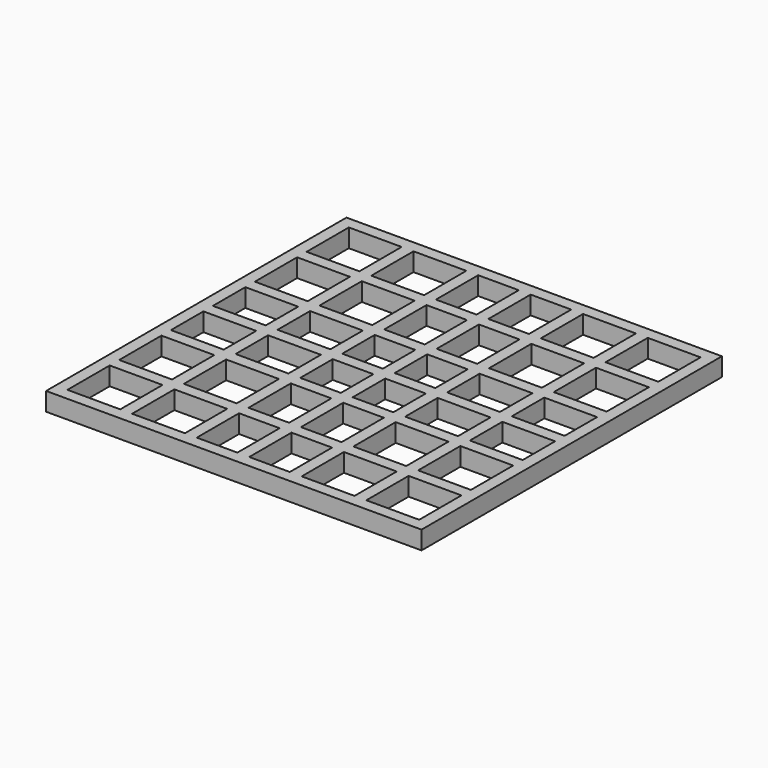
from build123d import *

# Parameters (mm, degrees)
F0_W     = 4237.8
F0_H     = 4237.8
F0_W_2   = 596.1
F0_H_2   = 133.9
F0_W_3   = 133.9
F0_H_3   = 596.1
F0_H_4   = 458.05
F0_W_4   = 458.05
F1_DEPTH = 206.8


with BuildPart() as f1:
    # F0 (on Top) → F1 (new body)
    with BuildSketch(Plane.XY):
        Rectangle(F0_W, F0_H)
        Polygon((1985, 66.95), (1985, 0), (1985, -66.95), (1985, -525), (1985, -658.9), (1985, -1255), (1985, -1388.9), (1985, -1985), (1388.9, -1985), (1255, -1985), (658.9, -1985), (525, -1985), (66.95, -1985), (4.19e-08, -1985), (-66.95, -1985), (-525, -1985), (-658.9, -1985), (-1255, -1985), (-1388.9, -1985), (-1985, -1985), (-1985, -1388.9), (-1985, -1255), (-1985, -658.9), (-1985, -525), (-1985, -66.95), (-1985, 1.1618e-06), (-1985, 66.95), (-1985, 525), (-1985, 658.9), (-1985, 1255), (-1985, 1388.9), (-1985, 1985), (-1388.9, 1985), (-1255, 1985), (-658.9, 1985), (-525, 1985), (-66.95, 1985), (0, 1985), (66.95, 1985), (525, 1985), (658.9, 1985), (1255, 1985), (1388.9, 1985), (1985, 1985), (1985, 1388.9), (1985, 1255), (1985, 658.9), (1985, 525), align=None, mode=Mode.SUBTRACT)
        with Locations((-956.95, 1321.95)):
            Rectangle(F0_W_2, F0_H_2)
        with Locations((-1321.95, 956.95)):
            Rectangle(F0_W_3, F0_H_3)
        with Locations((-956.95, -591.95)):
            Rectangle(F0_W_2, F0_H_2)
        with Locations((-1321.95, -956.95)):
            Rectangle(F0_W_3, F0_H_3)
        with Locations((-956.95, 0)):
            Rectangle(F0_W_2, F0_H_2)
        with Locations((-591.95, -956.95)):
            Rectangle(F0_W_3, F0_H_3)
        with Locations((-956.95, 591.95)):
            Rectangle(F0_W_2, F0_H_2)
        with Locations((-956.95, -1321.95)):
            Rectangle(F0_W_2, F0_H_2)
        with Locations((0, -956.95)):
            Rectangle(F0_W_3, F0_H_3)
        with Locations((-591.95, 956.95)):
            Rectangle(F0_W_3, F0_H_3)
        with Locations((0, 956.95)):
            Rectangle(F0_W_3, F0_H_3)
        with Locations((591.95, 956.95)):
            Rectangle(F0_W_3, F0_H_3)
        with Locations((1321.95, 956.95)):
            Rectangle(F0_W_3, F0_H_3)
        with Locations((956.95, 1321.95)):
            Rectangle(F0_W_2, F0_H_2)
        with Locations((956.95, 591.95)):
            Rectangle(F0_W_2, F0_H_2)
        with Locations((956.95, 0)):
            Rectangle(F0_W_2, F0_H_2)
        with Locations((956.95, -591.95)):
            Rectangle(F0_W_2, F0_H_2)
        with Locations((591.95, -956.95)):
            Rectangle(F0_W_3, F0_H_3)
        with Locations((1321.95, -956.95)):
            Rectangle(F0_W_3, F0_H_3)
        with Locations((956.95, -1321.95)):
            Rectangle(F0_W_2, F0_H_2)
        with BuildLine():
            Line((-1388.9, -66.95), (-1388.9, 66.95))
            Line((-1388.9, 66.95), (-1983.8706352734, 66.95))
            ThreePointArc((-1983.8706352734, 66.95), (-1984.717638726, 33.4797629929), (-1985, 1.1618e-06))
            ThreePointArc((-1985, 1.1618e-06), (-1984.7176387456, -33.4797618313), (-1983.8706352734, -66.95))
            Line((-1983.8706352734, -66.95), (-1388.9, -66.95))
        make_face()
        with BuildLine():
            Line((66.95, 1388.9), (66.95, 1983.8706352734))
            ThreePointArc((66.95, 1983.8706352734), (33.4797624121, 1984.7176387358), (0, 1985))
            ThreePointArc((0, 1985), (-33.4797624121, 1984.7176387358), (-66.95, 1983.8706352734))
            Line((-66.95, 1983.8706352734), (-66.95, 1388.9))
            Line((-66.95, 1388.9), (66.95, 1388.9))
        make_face()
        with BuildLine():
            ThreePointArc((1983.8706352734, -66.95), (1984.7176387358, -33.4797624121), (1985, 0))
            ThreePointArc((1985, 0), (1984.7176387358, 33.4797624121), (1983.8706352734, 66.95))
            Line((1983.8706352734, 66.95), (1388.9, 66.95))
            Line((1388.9, 66.95), (1388.9, -66.95))
            Line((1388.9, -66.95), (1983.8706352734, -66.95))
        make_face()
        with BuildLine():
            ThreePointArc((4.19e-08, -1985), (33.479762433, -1984.7176387354), (66.95, -1983.8706352734))
            Line((66.95, -1983.8706352734), (66.95, -1388.9))
            Line((66.95, -1388.9), (-66.95, -1388.9))
            Line((-66.95, -1388.9), (-66.95, -1983.8706352734))
            ThreePointArc((-66.95, -1983.8706352734), (-33.4797623912, -1984.7176387361), (4.19e-08, -1985))
        make_face()
        with BuildLine():
            Line((-658.9, 1388.9), (-525, 1388.9))
            Line((-525, 1388.9), (-525, 1914.3144987175))
            ThreePointArc((-525, 1914.3144987175), (-592.3199503859, 1894.5664613243), (-658.9, 1872.4518124641))
            Line((-658.9, 1872.4518124641), (-658.9, 1388.9))
        make_face()
        with BuildLine():
            Line((-1914.3144987175, 525), (-1388.9, 525))
            Line((-1388.9, 525), (-1388.9, 658.9))
            Line((-1388.9, 658.9), (-1872.4518124641, 658.9))
            ThreePointArc((-1872.4518124641, 658.9), (-1894.5664613243, 592.3199503858), (-1914.3144987175, 525))
        make_face()
        with BuildLine():
            Line((-1388.9, -658.9), (-1388.9, -525))
            Line((-1388.9, -525), (-1914.3144987175, -525))
            ThreePointArc((-1914.3144987175, -525), (-1894.5664613243, -592.3199503858), (-1872.4518124641, -658.9))
            Line((-1872.4518124641, -658.9), (-1388.9, -658.9))
        make_face()
        with BuildLine():
            Line((-525, -1914.3144987175), (-525, -1388.9))
            Line((-525, -1388.9), (-658.9, -1388.9))
            Line((-658.9, -1388.9), (-658.9, -1872.4518124641))
            ThreePointArc((-658.9, -1872.4518124641), (-592.3199503859, -1894.5664613243), (-525, -1914.3144987175))
        make_face()
        with BuildLine():
            Line((658.9, 1388.9), (658.9, 1872.4518124641))
            ThreePointArc((658.9, 1872.4518124641), (592.3199503858, 1894.5664613243), (525, 1914.3144987175))
            Line((525, 1914.3144987175), (525, 1388.9))
            Line((525, 1388.9), (658.9, 1388.9))
        make_face()
        with BuildLine():
            Line((1388.9, 525), (1914.3144987175, 525))
            ThreePointArc((1914.3144987175, 525), (1894.5664613243, 592.3199503859), (1872.4518124641, 658.9))
            Line((1872.451812464, 658.9), (1388.9, 658.9))
            Line((1388.9, 658.9), (1388.9, 525))
        make_face()
        with BuildLine():
            ThreePointArc((1872.4518124641, -658.9), (1894.5664613243, -592.3199503859), (1914.3144987175, -525))
            Line((1914.3144987175, -525), (1388.9, -525))
            Line((1388.9, -525), (1388.9, -658.9))
            Line((1388.9, -658.9), (1872.451812464, -658.9))
        make_face()
        with BuildLine():
            ThreePointArc((525, -1914.3144987175), (592.3199503858, -1894.5664613243), (658.9, -1872.4518124641))
            Line((658.9, -1872.4518124641), (658.9, -1388.9))
            Line((658.9, -1388.9), (525, -1388.9))
            Line((525, -1388.9), (525, -1914.3144987175))
        make_face()
        with BuildLine():
            ThreePointArc((-1388.9, 1418.1614118287), (-1323.3054721901, 1479.5565644042), (-1255, 1537.9206741571))
            Line((-1255, 1537.9206741571), (-1255, 1985))
            Line((-1255, 1985), (-1388.9, 1985))
            Line((-1388.9, 1985), (-1388.9, 1418.1614118287))
        make_face()
        with BuildLine():
            Line((-1985, 1255), (-1537.9206741571, 1255))
            ThreePointArc((-1537.9206741571, 1255), (-1479.5565644042, 1323.3054721902), (-1418.1614118287, 1388.9))
            Line((-1418.1614118287, 1388.9), (-1985, 1388.9))
            Line((-1985, 1388.9), (-1985, 1255))
        make_face()
        with BuildLine():
            ThreePointArc((-1418.1614118287, -1388.9), (-1479.5565644042, -1323.3054721902), (-1537.9206741571, -1255))
            Line((-1537.9206741571, -1255), (-1985, -1255))
            Line((-1985, -1255), (-1985, -1388.9))
            Line((-1985, -1388.9), (-1418.1614118287, -1388.9))
        make_face()
        with BuildLine():
            Line((-1255, -1985), (-1255, -1537.9206741571))
            ThreePointArc((-1255, -1537.9206741571), (-1323.3054721901, -1479.5565644042), (-1388.9, -1418.1614118287))
            Line((-1388.9, -1418.1614118287), (-1388.9, -1985))
            Line((-1388.9, -1985), (-1255, -1985))
        make_face()
        with BuildLine():
            ThreePointArc((1255, 1537.9206741572), (1323.3054721902, 1479.5565644042), (1388.9, 1418.1614118287))
            Line((1388.9, 1418.1614118287), (1388.9, 1985))
            Line((1388.9, 1985), (1255, 1985))
            Line((1255, 1985), (1255, 1537.9206741572))
        make_face()
        with BuildLine():
            ThreePointArc((1418.1614118287, 1388.9000000001), (1479.5565644042, 1323.3054721902), (1537.9206741572, 1255))
            Line((1537.9206741571, 1255), (1985, 1255))
            Line((1985, 1255), (1985, 1388.9))
            Line((1985, 1388.9), (1418.1614118286, 1388.9))
        make_face()
        with BuildLine():
            Line((1985, -1255), (1537.9206741571, -1255))
            ThreePointArc((1537.9206741572, -1255), (1479.5565644042, -1323.3054721902), (1418.1614118287, -1388.9000000001))
            Line((1418.1614118286, -1388.9), (1985, -1388.9))
            Line((1985, -1388.9), (1985, -1255))
        make_face()
        with BuildLine():
            Line((1388.9, -1985), (1388.9, -1418.1614118287))
            ThreePointArc((1388.9, -1418.1614118287), (1323.3054721901, -1479.5565644042), (1255, -1537.9206741572))
            Line((1255, -1537.9206741572), (1255, -1985))
            Line((1255, -1985), (1388.9, -1985))
        make_face()
        with Locations((-1321.95, 295.975)):
            Rectangle(F0_W_3, F0_H_4)
        with Locations((-1321.95, -295.975)):
            Rectangle(F0_W_3, F0_H_4)
        with Locations((-591.95, -295.975)):
            Rectangle(F0_W_3, F0_H_4)
        with Locations((-295.975, -591.95)):
            Rectangle(F0_W_4, F0_H_2)
        with Locations((-295.975, 0)):
            Rectangle(F0_W_4, F0_H_2)
        with Locations((-591.95, 295.975)):
            Rectangle(F0_W_3, F0_H_4)
        with Locations((-295.975, 591.95)):
            Rectangle(F0_W_4, F0_H_2)
        with Locations((-295.975, -1321.95)):
            Rectangle(F0_W_4, F0_H_2)
        with Locations((0, -295.975)):
            Rectangle(F0_W_3, F0_H_4)
        with Locations((0, 295.975)):
            Rectangle(F0_W_3, F0_H_4)
        with Locations((-295.975, 1321.95)):
            Rectangle(F0_W_4, F0_H_2)
        with Locations((295.975, 1321.95)):
            Rectangle(F0_W_4, F0_H_2)
        with Locations((295.975, 591.95)):
            Rectangle(F0_W_4, F0_H_2)
        with Locations((1321.95, 295.975)):
            Rectangle(F0_W_3, F0_H_4)
        with Locations((591.95, 295.975)):
            Rectangle(F0_W_3, F0_H_4)
        with Locations((295.975, 0)):
            Rectangle(F0_W_4, F0_H_2)
        with Locations((295.975, -591.95)):
            Rectangle(F0_W_4, F0_H_2)
        with Locations((591.95, -295.975)):
            Rectangle(F0_W_3, F0_H_4)
        with Locations((1321.95, -295.975)):
            Rectangle(F0_W_3, F0_H_4)
        with Locations((295.975, -1321.95)):
            Rectangle(F0_W_4, F0_H_2)
        with Locations((-1321.95, 1321.95)):
            Rectangle(F0_W_3, F0_H_2)
        with Locations((-1321.95, 591.95)):
            Rectangle(F0_W_3, F0_H_2)
        with Locations((-1321.95, 0)):
            Rectangle(F0_W_3, F0_H_2)
        with Locations((-1321.95, -591.95)):
            Rectangle(F0_W_3, F0_H_2)
        with Locations((-591.95, 0)):
            Rectangle(F0_W_3, F0_H_2)
        with Locations((-591.95, -591.95)):
            Rectangle(F0_W_3, F0_H_2)
        with Locations((-591.95, 591.95)):
            Rectangle(F0_W_3, F0_H_2)
        with Locations((-1321.95, -1321.95)):
            Rectangle(F0_W_3, F0_H_2)
        with Locations((-591.95, -1321.95)):
            Rectangle(F0_W_3, F0_H_2)
        with Locations((0, -1321.95)):
            Rectangle(F0_W_3, F0_H_2)
        with Locations((0, -591.95)):
            Rectangle(F0_W_3, F0_H_2)
        Rectangle(F0_W_3, F0_H_2)
        with Locations((0, 591.95)):
            Rectangle(F0_W_3, F0_H_2)
        with Locations((-591.95, 1321.95)):
            Rectangle(F0_W_3, F0_H_2)
        with Locations((0, 1321.95)):
            Rectangle(F0_W_3, F0_H_2)
        with Locations((591.95, 1321.95)):
            Rectangle(F0_W_3, F0_H_2)
        with Locations((591.95, 591.95)):
            Rectangle(F0_W_3, F0_H_2)
        with Locations((1321.95, 1321.95)):
            Rectangle(F0_W_3, F0_H_2)
        with Locations((1321.95, 591.95)):
            Rectangle(F0_W_3, F0_H_2)
        with Locations((591.95, 0)):
            Rectangle(F0_W_3, F0_H_2)
        with Locations((1321.95, 0)):
            Rectangle(F0_W_3, F0_H_2)
        with Locations((591.95, -591.95)):
            Rectangle(F0_W_3, F0_H_2)
        with Locations((1321.95, -591.95)):
            Rectangle(F0_W_3, F0_H_2)
        with Locations((1321.95, -1321.95)):
            Rectangle(F0_W_3, F0_H_2)
        with Locations((591.95, -1321.95)):
            Rectangle(F0_W_3, F0_H_2)
        with BuildLine():
            Line((-1537.9206741571, 1255), (-1388.9, 1255))
            Line((-1388.9, 1255), (-1388.9, 1388.9))
            Line((-1388.9, 1388.9), (-1418.1614118287, 1388.9))
            ThreePointArc((-1418.1614118287, 1388.9), (-1479.5565644042, 1323.3054721902), (-1537.9206741571, 1255))
        make_face()
        with BuildLine():
            Line((-1388.9, 1388.9), (-1255, 1388.9))
            Line((-1255, 1388.9), (-1255, 1537.9206741571))
            ThreePointArc((-1255, 1537.9206741571), (-1323.3054721901, 1479.5565644042), (-1388.9, 1418.1614118287))
            Line((-1388.9, 1418.1614118287), (-1388.9, 1388.9))
        make_face()
        with BuildLine():
            Line((-1388.9, -1388.9), (-1388.9, -1255))
            Line((-1388.9, -1255), (-1537.9206741571, -1255))
            ThreePointArc((-1537.9206741571, -1255), (-1479.5565644042, -1323.3054721902), (-1418.1614118287, -1388.9))
            Line((-1418.1614118287, -1388.9), (-1388.9, -1388.9))
        make_face()
        with BuildLine():
            Line((-1255, -1537.9206741571), (-1255, -1388.9))
            Line((-1255, -1388.9), (-1388.9, -1388.9))
            Line((-1388.9, -1388.9), (-1388.9, -1418.1614118287))
            ThreePointArc((-1388.9, -1418.1614118287), (-1323.3054721901, -1479.5565644042), (-1255, -1537.9206741571))
        make_face()
        with BuildLine():
            Line((1388.9, 1388.9), (1388.9, 1418.1614118287))
            ThreePointArc((1388.9, 1418.1614118287), (1323.3054721902, 1479.5565644042), (1255, 1537.9206741572))
            Line((1255, 1537.9206741572), (1255, 1388.9))
            Line((1255, 1388.9), (1388.9, 1388.9))
        make_face()
        with BuildLine():
            Line((1388.9, 1255), (1537.9206741571, 1255))
            ThreePointArc((1537.9206741572, 1255), (1479.5565644042, 1323.3054721902), (1418.1614118287, 1388.9000000001))
            Line((1418.1614118286, 1388.9), (1388.9, 1388.9))
            Line((1388.9, 1388.9), (1388.9, 1255))
        make_face()
        with BuildLine():
            ThreePointArc((1418.1614118287, -1388.9000000001), (1479.5565644042, -1323.3054721902), (1537.9206741572, -1255))
            Line((1537.9206741571, -1255), (1388.9, -1255))
            Line((1388.9, -1255), (1388.9, -1388.9))
            Line((1388.9, -1388.9), (1418.1614118286, -1388.9))
        make_face()
        with BuildLine():
            ThreePointArc((1255, -1537.9206741572), (1323.3054721901, -1479.5565644042), (1388.9, -1418.1614118287))
            Line((1388.9, -1418.1614118287), (1388.9, -1388.9))
            Line((1388.9, -1388.9), (1255, -1388.9))
            Line((1255, -1388.9), (1255, -1537.9206741572))
        make_face()
        with BuildLine():
            ThreePointArc((-658.9, 1872.4518124641), (-592.3199503859, 1894.5664613243), (-525, 1914.3144987175))
            Line((-525, 1914.3144987175), (-525, 1985))
            Line((-525, 1985), (-658.9, 1985))
            Line((-658.9, 1985), (-658.9, 1872.4518124641))
        make_face()
        with BuildLine():
            Line((-1985, 525), (-1914.3144987175, 525))
            ThreePointArc((-1914.3144987175, 525), (-1894.5664613243, 592.3199503858), (-1872.4518124641, 658.9))
            Line((-1872.4518124641, 658.9), (-1985, 658.9))
            Line((-1985, 658.9), (-1985, 525))
        make_face()
        with BuildLine():
            ThreePointArc((-1872.4518124641, -658.9), (-1894.5664613243, -592.3199503858), (-1914.3144987175, -525))
            Line((-1914.3144987175, -525), (-1985, -525))
            Line((-1985, -525), (-1985, -658.9))
            Line((-1985, -658.9), (-1872.4518124641, -658.9))
        make_face()
        with BuildLine():
            ThreePointArc((525, 1914.3144987175), (592.3199503858, 1894.5664613243), (658.9, 1872.4518124641))
            Line((658.9, 1872.4518124641), (658.9, 1985))
            Line((658.9, 1985), (525, 1985))
            Line((525, 1985), (525, 1914.3144987175))
        make_face()
        with BuildLine():
            ThreePointArc((1872.4518124641, 658.9), (1894.5664613243, 592.3199503859), (1914.3144987175, 525))
            Line((1914.3144987175, 525), (1985, 525))
            Line((1985, 525), (1985, 658.9))
            Line((1985, 658.9), (1872.451812464, 658.9))
        make_face()
        with BuildLine():
            Line((1985, -525), (1914.3144987175, -525))
            ThreePointArc((1914.3144987175, -525), (1894.5664613243, -592.3199503859), (1872.4518124641, -658.9))
            Line((1872.451812464, -658.9), (1985, -658.9))
            Line((1985, -658.9), (1985, -525))
        make_face()
        with BuildLine():
            Line((-525, -1985), (-525, -1914.3144987175))
            ThreePointArc((-525, -1914.3144987175), (-592.3199503859, -1894.5664613243), (-658.9, -1872.4518124641))
            Line((-658.9, -1872.4518124641), (-658.9, -1985))
            Line((-658.9, -1985), (-525, -1985))
        make_face()
        with BuildLine():
            Line((658.9, -1985), (658.9, -1872.4518124641))
            ThreePointArc((658.9, -1872.4518124641), (592.3199503858, -1894.5664613243), (525, -1914.3144987175))
            Line((525, -1914.3144987175), (525, -1985))
            Line((525, -1985), (658.9, -1985))
        make_face()
        with BuildLine():
            Line((-1985, -66.95), (-1983.8706352734, -66.95))
            ThreePointArc((-1983.8706352734, -66.95), (-1984.7176387456, -33.4797618313), (-1985, 1.1618e-06))
            Line((-1985, 1.1618e-06), (-1985, -66.95))
        make_face()
        with BuildLine():
            ThreePointArc((-1985, 1.1618e-06), (-1984.717638726, 33.4797629929), (-1983.8706352734, 66.95))
            Line((-1983.8706352734, 66.95), (-1985, 66.95))
            Line((-1985, 66.95), (-1985, 1.1618e-06))
        make_face()
        with BuildLine():
            ThreePointArc((-66.95, 1983.8706352734), (-33.4797624121, 1984.7176387358), (0, 1985))
            Line((0, 1985), (-66.95, 1985))
            Line((-66.95, 1985), (-66.95, 1983.8706352734))
        make_face()
        with BuildLine():
            ThreePointArc((0, 1985), (33.4797624121, 1984.7176387358), (66.95, 1983.8706352734))
            Line((66.95, 1983.8706352734), (66.95, 1985))
            Line((66.95, 1985), (0, 1985))
        make_face()
        with BuildLine():
            ThreePointArc((1983.8706352734, 66.95), (1984.7176387358, 33.4797624121), (1985, 0))
            Line((1985, 0), (1985, 66.95))
            Line((1985, 66.95), (1983.8706352734, 66.95))
        make_face()
        with BuildLine():
            Line((1985, -66.95), (1985, 0))
            ThreePointArc((1985, 0), (1984.7176387358, -33.4797624121), (1983.8706352734, -66.95))
            Line((1983.8706352734, -66.95), (1985, -66.95))
        make_face()
        with BuildLine():
            Line((66.95, -1985), (66.95, -1983.8706352734))
            ThreePointArc((66.95, -1983.8706352734), (33.479762433, -1984.7176387354), (4.19e-08, -1985))
            Line((4.19e-08, -1985), (66.95, -1985))
        make_face()
        with BuildLine():
            Line((-66.95, -1985), (4.19e-08, -1985))
            ThreePointArc((4.19e-08, -1985), (-33.4797623912, -1984.7176387361), (-66.95, -1983.8706352734))
            Line((-66.95, -1983.8706352734), (-66.95, -1985))
        make_face()
    extrude(amount=F1_DEPTH)


solid = f1.part
